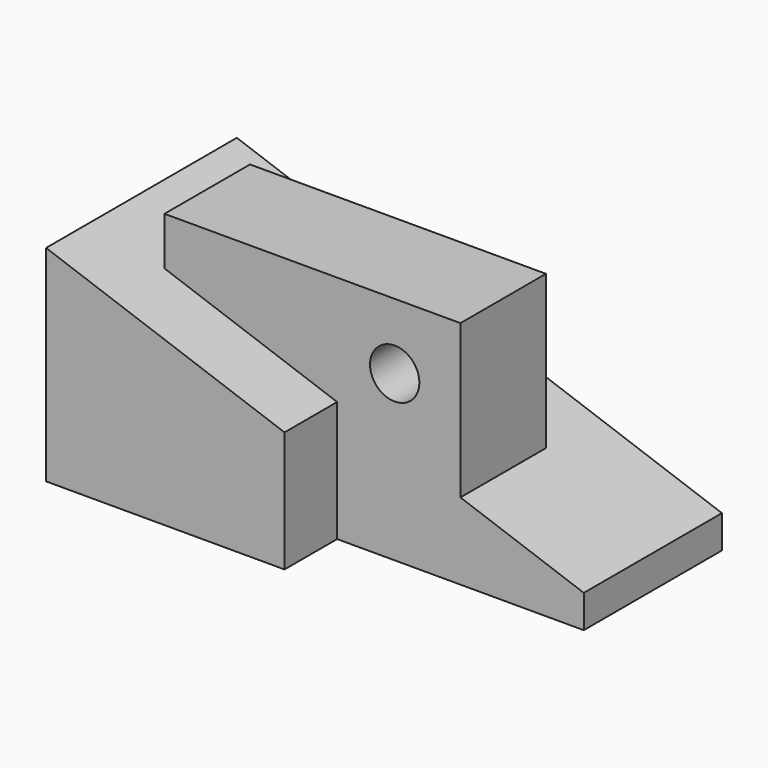
from build123d import *

# Parameters (mm, degrees)
F1_DEPTH = 58
F2_W     = 60
F2_H     = 16
F3_DEPTH = 50.001
F4_W     = 72
F4_H     = 26
F5_DEPTH = 56
F6_R     = 6
F7_DEPTH = 42.001


with BuildPart() as f1:
    # F0 (on Front) → F1 (new body)
    with BuildSketch(Plane.XZ):
        Polygon((0, 50), (0, 0), (118, 0), (118, 8), align=None)
    extrude(amount=F1_DEPTH)

    # F2 (on Top) → F3 (cut, through all)
    with BuildSketch(Plane.XY):
        with Locations((88, -50)):
            Rectangle(F2_W, F2_H)
    extrude(amount=F3_DEPTH, mode=Mode.SUBTRACT)

    # F4 (on face) → F5 (join)
    with BuildSketch(Plane(origin=(0, 0, 0), x_dir=(1, 0, 0), z_dir=(0, 0, -1))):
        with Locations((52, 29)):
            Rectangle(F4_W, F4_H)
    extrude(amount=-F5_DEPTH)

    # F6 (on face) → F7 (cut, through all)
    with BuildSketch(Plane.XZ.offset(42)):
        with Locations((72, 40)):
            Circle(F6_R)
    extrude(amount=-F7_DEPTH, mode=Mode.SUBTRACT)


solid = f1.part
